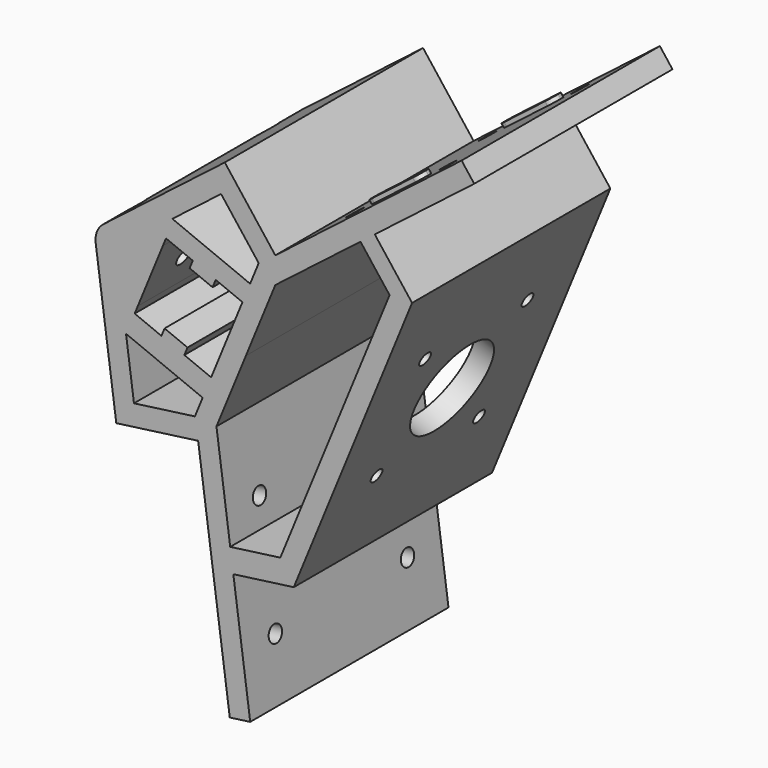
from build123d import *

# Parameters (mm, degrees)
F1_DEPTH  = 60
F2_DEPTH  = 5
F3_R      = 11.5
F4_DEPTH  = 5
F3_R_2    = 1.65
F5_DEPTH  = 5
F6_R      = 5
F8_DEPTH  = 5
F9_DEPTH  = 1
F11_DEPTH = 1
F12_DEPTH = 5
F14_DEPTH = 25
F15_DEPTH = 20
F16_DEPTH = 10


with BuildPart() as f1:
    # F0 (on Front) → F1 (new body)
    with BuildSketch(Plane.XZ):
        Polygon((-0.8259544704, 49.8186966014), (-32.4679363696, 25.3486132037), (-27.0972134641, -14.289188646), (-7.2783125393, -11.6038271932), (0.3749676011, -68.0876948289), (5.3296928323, -67.4163544658), (1.2434648082, -37.2585713182), (0.487655206, -31.680433742), (-2.8427632158, -7.1007881707), (4.2831620063, 10.2881004444), (11.4090872284, 27.6769890596), (32.0257881148, 43.6207561625), (35.483379544, 46.2946579079), (59.5576718595, 64.9123267561), (56.4989114348, 68.8675744935), (11.4090872284, 33.9977056518), align=None)
        Polygon((-24.736886441, 5.5297122789), (-6.1857349105, -2.0725055233), (-8.0677718696, -6.6651064883), (-22.8138285961, -8.6631230516), align=None, mode=Mode.SUBTRACT)
        Polygon((2.6901175961, 19.5866062119), (-0.3434260943, 12.1840652509), (-3.3769697847, 4.78152429), (-4.1353557073, 2.9308890498), (-10.6125790481, 5.5852397788), (-16.1644847688, 7.8603975466), (-22.6417081096, 10.5147482757), (-21.883322187, 12.365383516), (-15.8162348063, 27.1704654379), (-15.0578488837, 29.0211006781), (-8.5806255428, 26.366749949), (-3.0287198221, 24.0915921812), (3.4485035187, 21.4372414521), align=None, mode=Mode.SUBTRACT)
        Polygon((-13.5248543211, 33.6773834551), (-1.7224417831, 42.8046884393), (7.3809196811, 31.0332369902), (5.3026969009, 25.9618977163), align=None, mode=Mode.SUBTRACT)
        Polygon((-9.3390114654, 24.5161147088), (-3.7871057447, 22.240956941), (-3.0287198221, 24.0915921812), (-8.5806255428, 26.366749949), align=None)
        Polygon((-10.6125790481, 5.5852397788), (-9.8541931255, 7.4358750191), (-15.4060988462, 9.7110327869), (-16.1644847688, 7.8603975466), align=None)
        Polygon((44.5133963542, 34.6180475827), (35.483379544, 46.2946579079), (32.0257881148, 43.6207561625), (39.0676305083, 34.5150311868), (12.614220122, -30.0373451518), (0.487655206, -31.680433742), (1.2434648082, -37.2585713182), (15.870714385, -35.2766525265), align=None)
    extrude(amount=F1_DEPTH)

    # F0 (on Front) → F2 (join)
    with BuildSketch(Plane.XZ):
        Polygon((-4.1353557073, 2.9308890498), (-3.3769697847, 4.78152429), (-9.8541931255, 7.4358750191), (-10.6125790481, 5.5852397788), align=None)
        Polygon((-16.1644847688, 7.8603975466), (-15.4060988462, 9.7110327869), (-21.883322187, 12.365383516), (-22.6417081096, 10.5147482757), align=None)
        Polygon((-15.8162348063, 27.1704654379), (-9.3390114654, 24.5161147088), (-8.5806255428, 26.366749949), (-15.0578488837, 29.0211006781), align=None)
        Polygon((-3.7871057447, 22.240956941), (2.6901175961, 19.5866062119), (3.4485035187, 21.4372414521), (-3.0287198221, 24.0915921812), align=None)
    extrude(amount=F2_DEPTH)

    # F3 (on face) → F4 (cut)
    with BuildSketch(Plane(origin=(25.9663648412, 0, -10.6409545914), x_dir=(0, 1, 0), z_dir=(0.9253176201, 0, -0.3791929613))):
        with Locations((-30, 11.1439055037)):
            Circle(F3_R)
    extrude(amount=-F4_DEPTH, mode=Mode.SUBTRACT)

    # F3 (on face) → F5 (cut)
    with BuildSketch(Plane(origin=(25.9663648412, 0, -10.6409545914), x_dir=(0, 1, 0), z_dir=(0.9253176201, 0, -0.3791929613))):
        with Locations((-45.5, -4.3560944963)):
            Circle(F3_R_2)
        with Locations((-45.5, 26.6439055037)):
            Circle(F3_R_2)
        with Locations((-14.5, 26.6439055037)):
            Circle(F3_R_2)
        with Locations((-14.5, -4.3560944963)):
            Circle(F3_R_2)
    extrude(amount=-F5_DEPTH, mode=Mode.SUBTRACT)

    # F6
    f6_edges = [f1.edges().sort_by_distance(p)[0] for p in [
        (-32.467936, -30, 25.348613),
    ]]
    fillet(f6_edges, radius=F6_R)

    # F7 (on face) → F8 (cut)
    with BuildSketch(Plane(origin=(-8.6910154187, 0, -1.1775889026), x_dir=(0, -1, 0), z_dir=(-0.9909450462, 0, -0.1342680726))):
        with BuildLine():
            ThreePointArc((8.0051429963, -53.2722224429), (10.0051429963, -55.2722224429), (12.0051429963, -53.2722224429))
            ThreePointArc((12.0051429963, -53.2722224429), (10.0051429963, -51.2722224429), (8.0051429963, -53.2722224429))
        make_face()
        with BuildLine():
            ThreePointArc((48.0081772135, -53.2711927736), (50.0081772135, -55.2711927736), (52.0081772135, -53.2711927736))
            ThreePointArc((52.0081772135, -53.2711927736), (50.0081772135, -51.2711927736), (48.0081772135, -53.2711927736))
        make_face()
        with BuildLine():
            ThreePointArc((48.0081772135, -24.7834647967), (50.0081772135, -26.7834647967), (52.0081772135, -24.7834647967))
            ThreePointArc((52.0081772135, -24.7834647967), (50.0081772135, -22.7834647967), (48.0081772135, -24.7834647967))
        make_face()
        with BuildLine():
            ThreePointArc((8.0051429963, -24.7722242893), (10.0051429963, -26.7722242893), (12.0051429963, -24.7722242893))
            ThreePointArc((12.0051429963, -24.7722242893), (10.0051429963, -22.7722242893), (8.0051429963, -24.7722242893))
        make_face()
    extrude(amount=-F8_DEPTH, mode=Mode.SUBTRACT)

    # F7 (on face) → F9 (join)
    with BuildSketch(Plane(origin=(-8.6910154187, 0, -1.1775889026), x_dir=(0, -1, 0), z_dir=(-0.9909450462, 0, -0.1342680726))):
        with BuildLine():
            ThreePointArc((48.0081772135, -45.2711927736), (50.0081772135, -47.2711927736), (52.0081772135, -45.2711927736))
            ThreePointArc((52.0081772135, -45.2711927736), (50.0081772135, -43.2711927736), (48.0081772135, -45.2711927736))
        make_face()
        with BuildLine():
            Line((52.0081772135, -45.2711927736), (52.0081772135, -32.7834647967))
            ThreePointArc((52.0081772135, -32.7834647967), (50.0081772135, -34.7834647967), (48.0081772135, -32.7834647967))
            Line((48.0081772135, -32.7834647967), (48.0081772135, -45.2711927736))
            ThreePointArc((48.0081772135, -45.2711927736), (50.0081772135, -43.2711927736), (52.0081772135, -45.2711927736))
        make_face()
        with BuildLine():
            ThreePointArc((48.0081772135, -32.7834647967), (50.0081772135, -34.7834647967), (52.0081772135, -32.7834647967))
            ThreePointArc((52.0081772135, -32.7834647967), (50.0081772135, -30.7834647967), (48.0081772135, -32.7834647967))
        make_face()
        with BuildLine():
            ThreePointArc((8.0051429963, -45.2722224429), (10.0051429963, -43.2722224429), (12.0051429963, -45.2722224429))
            Line((12.0051429963, -45.2722224429), (12.0051429963, -32.7722242893))
            ThreePointArc((12.0051429963, -32.7722242893), (10.0051429963, -34.7722242893), (8.0051429963, -32.7722242893))
            Line((8.0051429963, -32.7722242893), (8.0051429963, -45.2722224429))
        make_face()
        with BuildLine():
            ThreePointArc((8.0051429963, -32.7722242893), (10.0051429963, -34.7722242893), (12.0051429963, -32.7722242893))
            ThreePointArc((12.0051429963, -32.7722242893), (10.0051429963, -30.7722242893), (8.0051429963, -32.7722242893))
        make_face()
        with BuildLine():
            ThreePointArc((8.0051429963, -45.2722224429), (10.0051429963, -47.2722224429), (12.0051429963, -45.2722224429))
            ThreePointArc((12.0051429963, -45.2722224429), (10.0051429963, -43.2722224429), (8.0051429963, -45.2722224429))
        make_face()
    extrude(amount=F9_DEPTH)

    # F10 (on face) → F11 (join)
    with BuildSketch(Plane(origin=(-12.1826370405, 0, 15.7532270918), x_dir=(0.7910495475, 0, 0.6117520849), z_dir=(-0.6117520849, 0, 0.7910495475))):
        with BuildLine():
            Line((64.573320605, -8), (52.073320605, -8))
            ThreePointArc((52.073320605, -8), (53.4875341673, -8.5857864376), (54.073320605, -10))
            ThreePointArc((54.073320605, -10), (53.4875341673, -11.4142135624), (52.073320605, -12))
            Line((52.073320605, -12), (64.573320605, -12))
            ThreePointArc((64.573320605, -12), (62.573320605, -10), (64.573320605, -8))
        make_face()
        with BuildLine():
            ThreePointArc((54.073320605, -10), (53.4875341673, -8.5857864376), (52.073320605, -8))
            ThreePointArc((52.073320605, -8), (50.073320605, -10), (52.073320605, -12))
            ThreePointArc((52.073320605, -12), (53.4875341673, -11.4142135624), (54.073320605, -10))
        make_face()
        with BuildLine():
            ThreePointArc((66.573320605, -10), (65.9875341673, -8.5857864376), (64.573320605, -8))
            ThreePointArc((64.573320605, -8), (62.573320605, -10), (64.573320605, -12))
            ThreePointArc((64.573320605, -12), (65.9875341673, -11.4142135624), (66.573320605, -10))
        make_face()
        with BuildLine():
            ThreePointArc((54.073320605, -50), (53.4875341673, -48.5857864376), (52.073320605, -48))
            ThreePointArc((52.073320605, -48), (50.073320605, -50), (52.073320605, -52))
            ThreePointArc((52.073320605, -52), (53.4875341673, -51.4142135624), (54.073320605, -50))
        make_face()
        with BuildLine():
            ThreePointArc((64.573320605, -52), (62.573320605, -50), (64.573320605, -48))
            Line((64.573320605, -48), (52.073320605, -48))
            ThreePointArc((52.073320605, -48), (53.4875341673, -48.5857864376), (54.073320605, -50))
            ThreePointArc((54.073320605, -50), (53.4875341673, -51.4142135624), (52.073320605, -52))
            Line((52.073320605, -52), (64.573320605, -52))
        make_face()
        with BuildLine():
            ThreePointArc((66.573320605, -50), (65.9875341673, -48.5857864376), (64.573320605, -48))
            ThreePointArc((64.573320605, -48), (62.573320605, -50), (64.573320605, -52))
            ThreePointArc((64.573320605, -52), (65.9875341673, -51.4142135624), (66.573320605, -50))
        make_face()
    extrude(amount=F11_DEPTH)

    # F10 (on face) → F12 (cut)
    with BuildSketch(Plane(origin=(-12.1826370405, 0, 15.7532270918), x_dir=(0.7910495475, 0, 0.6117520849), z_dir=(-0.6117520849, 0, 0.7910495475))):
        with BuildLine():
            ThreePointArc((44.073320605, -12), (45.4875341673, -11.4142135624), (46.073320605, -10))
            ThreePointArc((46.073320605, -10), (45.4875341673, -8.5857864376), (44.073320605, -8))
            ThreePointArc((44.073320605, -8), (42.073320605, -10), (44.073320605, -12))
        make_face()
        with BuildLine():
            ThreePointArc((74.573320605, -10), (73.9875341673, -8.5857864376), (72.573320605, -8))
            ThreePointArc((72.573320605, -8), (70.573320605, -10), (72.573320605, -12))
            ThreePointArc((72.573320605, -12), (73.9875341673, -11.4142135624), (74.573320605, -10))
        make_face()
        with BuildLine():
            ThreePointArc((46.073320605, -50), (45.4875341673, -48.5857864376), (44.073320605, -48))
            ThreePointArc((44.073320605, -48), (42.073320605, -50), (44.073320605, -52))
            ThreePointArc((44.073320605, -52), (45.4875341673, -51.4142135624), (46.073320605, -50))
        make_face()
        with BuildLine():
            ThreePointArc((72.573320605, -52), (73.9875341673, -51.4142135624), (74.573320605, -50))
            ThreePointArc((74.573320605, -50), (73.9875341673, -48.5857864376), (72.573320605, -48))
            ThreePointArc((72.573320605, -48), (70.573320605, -50), (72.573320605, -52))
        make_face()
    extrude(amount=-F12_DEPTH, mode=Mode.SUBTRACT)

    # F13 (on face) → F14 (cut)
    with BuildSketch(Plane(origin=(-23.075469025, 0, 9.4562723574), x_dir=(0, 1, 0), z_dir=(0.9253176201, 0, -0.3791929613))):
        with BuildLine():
            ThreePointArc((-52, 11.1439055037), (-50, 9.1439055037), (-48, 11.1439055037))
            Line((-48, 11.1439055037), (-52, 11.1439055037))
        make_face()
        with BuildLine():
            Line((-52, 11.1439055037), (-48, 11.1439055037))
            ThreePointArc((-48, 11.1439055037), (-50, 13.1439055037), (-52, 11.1439055037))
        make_face()
        with BuildLine():
            ThreePointArc((-12, 11.1439055037), (-10, 9.1439055037), (-8, 11.1439055037))
            Line((-8, 11.1439055037), (-12, 11.1439055037))
        make_face()
        with BuildLine():
            Line((-12, 11.1439055037), (-8, 11.1439055037))
            ThreePointArc((-8, 11.1439055037), (-10, 13.1439055037), (-12, 11.1439055037))
        make_face()
    extrude(amount=-F14_DEPTH, mode=Mode.SUBTRACT)

    # F13 (on face) → F15 (join)
    with BuildSketch(Plane(origin=(-23.075469025, 0, 9.4562723574), x_dir=(0, 1, 0), z_dir=(0.9253176201, 0, -0.3791929613))):
        with BuildLine():
            ThreePointArc((-54, 11.1439055037), (-50, 7.1439055037), (-46, 11.1439055037))
            Line((-46, 11.1439055037), (-48, 11.1439055037))
            ThreePointArc((-48, 11.1439055037), (-50, 9.1439055037), (-52, 11.1439055037))
            Line((-52, 11.1439055037), (-54, 11.1439055037))
        make_face()
        with BuildLine():
            Line((-48, 11.1439055037), (-46, 11.1439055037))
            ThreePointArc((-46, 11.1439055037), (-50, 15.1439055037), (-54, 11.1439055037))
            Line((-54, 11.1439055037), (-52, 11.1439055037))
            ThreePointArc((-52, 11.1439055037), (-50, 13.1439055037), (-48, 11.1439055037))
        make_face()
        with BuildLine():
            ThreePointArc((-14, 11.1439055037), (-10, 7.1439055037), (-6, 11.1439055037))
            Line((-6, 11.1439055037), (-8, 11.1439055037))
            ThreePointArc((-8, 11.1439055037), (-10, 9.1439055037), (-12, 11.1439055037))
            Line((-12, 11.1439055037), (-14, 11.1439055037))
        make_face()
        with BuildLine():
            Line((-8, 11.1439055037), (-6, 11.1439055037))
            ThreePointArc((-6, 11.1439055037), (-10, 15.1439055037), (-14, 11.1439055037))
            Line((-14, 11.1439055037), (-12, 11.1439055037))
            ThreePointArc((-12, 11.1439055037), (-10, 13.1439055037), (-8, 11.1439055037))
        make_face()
    extrude(amount=-F15_DEPTH)

    # F16 (cut): faces of the model
    f16_faces = [f1.faces().sort_by_distance(p)[0] for p in [
        (-37.356130899, -13.886862915, 27.3517837029),
        (-37.356130899, -47.886862915, 27.3517837029),
    ]]
    extrude(f16_faces, amount=-F16_DEPTH, mode=Mode.SUBTRACT)


solid = f1.part
